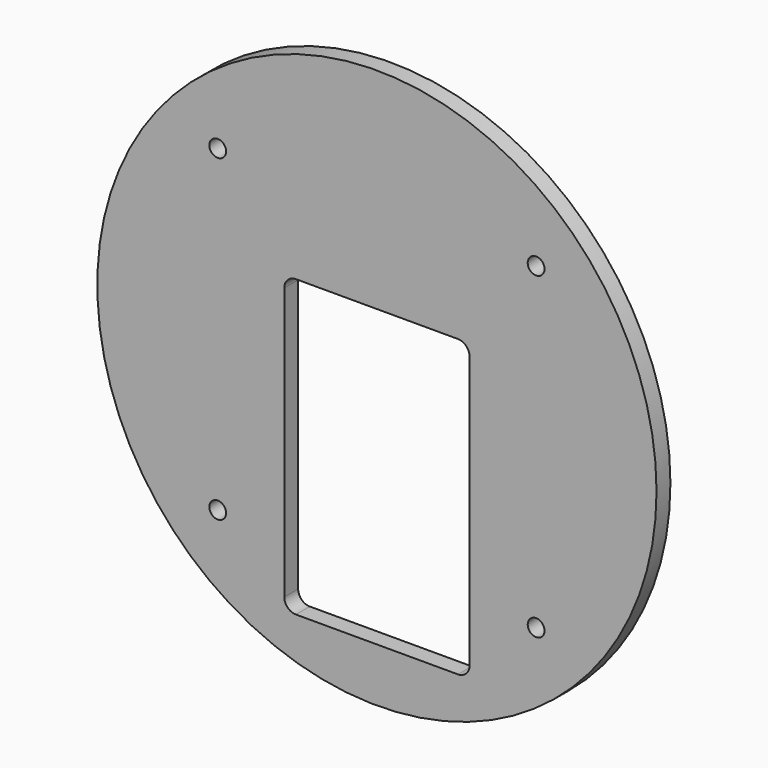
from build123d import *

# Parameters (mm, degrees)
F0_R     = 48.3
F1_DEPTH = 3
F2_R     = 1.25
F2_R_2   = 2.5
F3_DEPTH = 3.001
F4_R     = 1.45
F5_DEPTH = 3.001
F6_R     = 1
F7_DEPTH = 3.001
F8_W     = 32
F8_H     = 51
F9_DEPTH = 3.001
F10_R    = 2
F11_R    = 2
F12_R    = 2


with BuildPart() as f1:
    # F0 (on Front) → F1 (new body)
    with BuildSketch(Plane.XZ):
        Circle(F0_R)
    extrude(amount=F1_DEPTH)

    # F2 (on face) → F3 (cut, through all)
    with BuildSketch(Plane.XZ.offset(3)):
        with Locations((-8, 0)):
            Circle(F2_R)
        with Locations((8, 0)):
            Circle(F2_R)
        Circle(F2_R_2)
    extrude(amount=-F3_DEPTH, mode=Mode.SUBTRACT)

    # F4 (on face) → F5 (cut, through all)
    with BuildSketch(Plane.XZ.offset(3)):
        with Locations((-27.5, 27.5)):
            Circle(F4_R)
        with Locations((27.5, 27.5)):
            Circle(F4_R)
        with Locations((-27.5, -27.5)):
            Circle(F4_R)
        with Locations((27.5, -27.5)):
            Circle(F4_R)
    extrude(amount=-F5_DEPTH, mode=Mode.SUBTRACT)

    # F6 (on face) → F7 (cut, through all)
    with BuildSketch(Plane.XZ.offset(3)):
        with BuildLine():
            Line((-10.05, -33), (10.05, -33))
            Line((10.05, -33), (10.05, -5.589946))
            ThreePointArc((10.05, -5.589946), (0, -11.5), (-10.05, -5.589946))
            Line((-10.05, -5.589946), (-10.05, -33))
        make_face()
        with BuildLine():
            Line((10.05, 0), (10.05, -5.589946))
            ThreePointArc((10.05, -5.589946), (11.131599, -2.887473), (11.5, 0))
            ThreePointArc((11.5, 0), (-2.887473, 11.131599), (-10.05, -5.589946))
            Line((-10.05, -5.589946), (-10.05, 0))
            Line((-10.05, 0), (10.05, 0))
        make_face()
        with Locations((-13.5, -6.5)):
            Circle(F6_R)
        with Locations((-13.5, -14.5)):
            Circle(F6_R)
        with Locations((-13.5, -22.5)):
            Circle(F6_R)
        with Locations((-13.5, -30.5)):
            Circle(F6_R)
        with Locations((13.5, -6.5)):
            Circle(F6_R)
        with Locations((13.5, -14.5)):
            Circle(F6_R)
        with Locations((13.5, -22.5)):
            Circle(F6_R)
        with Locations((13.5, -30.5)):
            Circle(F6_R)
        with Locations((-8, -36)):
            Circle(F6_R)
        with Locations((8, -36)):
            Circle(F6_R)
    extrude(amount=-F7_DEPTH, mode=Mode.SUBTRACT)

    # F8 (on face) → F9 (cut, through all)
    with BuildSketch(Plane.XZ.offset(3)):
        with Locations((0, -13.5)):
            Rectangle(F8_W, F8_H)
    extrude(amount=-F9_DEPTH, mode=Mode.SUBTRACT)

    # F10
    f10_edges = [f1.edges().sort_by_distance(p)[0] for p in [
        (-16, -1.5, 12),
    ]]
    fillet(f10_edges, radius=F10_R)

    # F11
    f11_edges = [f1.edges().sort_by_distance(p)[0] for p in [
        (16, -1.5, 12),
    ]]
    fillet(f11_edges, radius=F11_R)

    # F12
    f12_edges = [f1.edges().sort_by_distance(p)[0] for p in [
        (16, -1.5, -39),
        (-16, -1.5, -39),
    ]]
    fillet(f12_edges, radius=F12_R)


solid = f1.part
